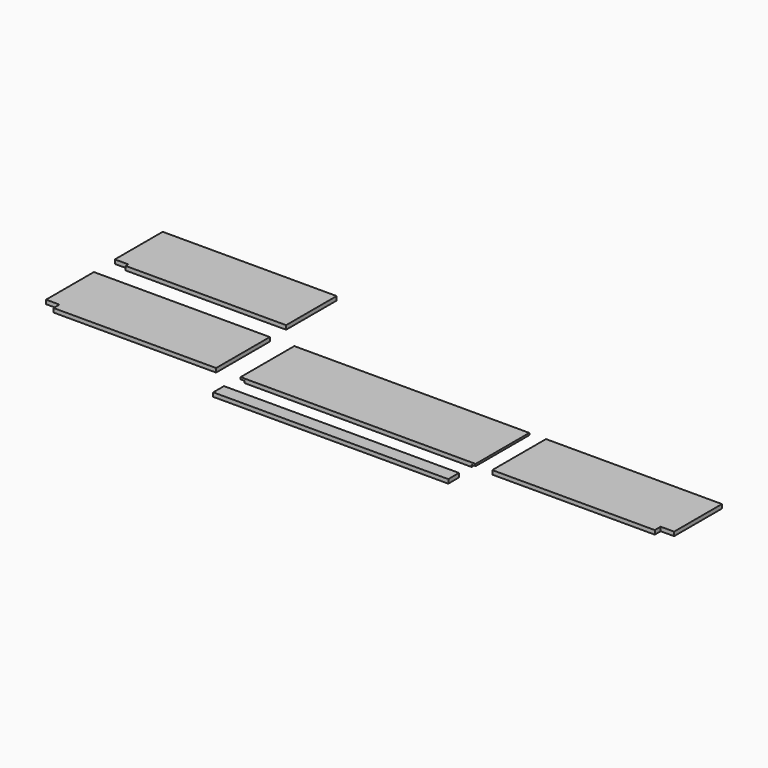
from build123d import *

# Parameters (mm, degrees)
F1_W      = 1400
F1_H      = 400
F2_DEPTH  = 24
F3_W      = 24
F3_H      = 400
F4_DEPTH  = 12
F6_DEPTH  = 24
F8_DEPTH  = 24
F10_DEPTH = 24
F11_W     = 1400
F11_H     = 80
F12_DEPTH = 24


with BuildPart() as f2:
    # F1 (on Top) → F2 (new body)
    with BuildSketch(Plane.XY):
        with Locations((-616.905708611, 170.4380482435)):
            Rectangle(F1_W, F1_H)
    extrude(amount=F2_DEPTH)

    # F3 (on face) → F4 (cut)
    with BuildSketch(Plane(origin=(0, 0, 0), x_dir=(1, 0, 0), z_dir=(0, 0, -1))):
        with Locations((-1304.905708611, -170.4380482435)):
            Rectangle(F3_W, F3_H)
        with Locations((71.094291389, -170.4380482435)):
            Rectangle(F3_W, F3_H)
    extrude(amount=-F4_DEPTH, mode=Mode.SUBTRACT)


with BuildPart() as f6:
    # F5 (on Top) → F6 (new body)
    with BuildSketch(Plane.XY):
        Polygon((1230.4513595249, 370.4380482435), (182.4513595249, 370.4380482435), (182.4513595249, -29.5619517565), (1150.4513595249, -29.5619517565), (1150.4513595249, 14.4380482435), (1230.4513595249, 14.4380482435), align=None)
    extrude(amount=F6_DEPTH)


with BuildPart() as f8:
    # F7 (on Top) → F8 (new body)
    with BuildSketch(Plane.XY):
        Polygon((-1462.8804537941, -29.5619517565), (-1462.8804537941, 370.4380482435), (-2510.8804537941, 370.4380482435), (-2510.8804537941, 14.4380482435), (-2430.8804537941, 14.4380482435), (-2430.8804537941, -29.5619517565), align=None)
    extrude(amount=F8_DEPTH)


with BuildPart() as f10:
    # F9 (on Top) → F10 (new body)
    with BuildSketch(Plane.XY):
        Polygon((-2434.2570304871, 511.0437083244), (-1478.2570304871, 511.0437083244), (-1478.2570304871, 887.0437083244), (-2514.2570304871, 887.0437083244), (-2514.2570304871, 531.0437083244), (-2434.2570304871, 531.0437083244), align=None)
    extrude(amount=F10_DEPTH)


with BuildPart() as f12:
    # F11 (on Top) → F12 (new body)
    with BuildSketch(Plane.XY):
        with Locations((-620.4753935337, -188.7731319666)):
            Rectangle(F11_W, F11_H)
    extrude(amount=F12_DEPTH)


solid = Compound([f2.part, f6.part, f8.part, f10.part, f12.part])
